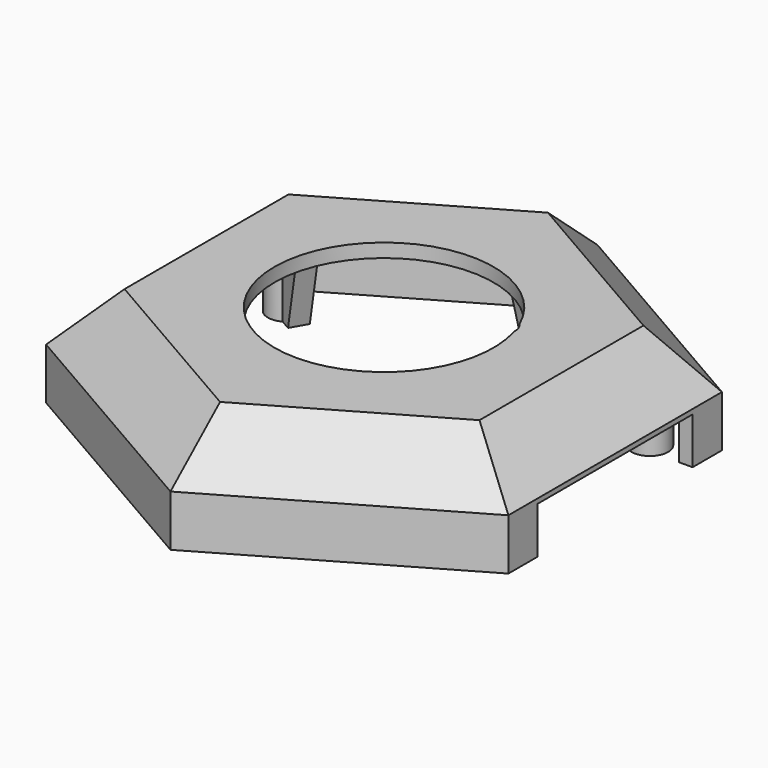
from build123d import *

# Parameters (mm, degrees)
BOX038_W                 = 6
BOX038_H                 = 42.4
BOX038_DEPTH             = 10.2
CYLINDER053_R            = 2
CYLINDER053_DEPTH        = 42
CYLINDER053_ROLL_ANGLE   = 90
PAD007_DEPTH             = 37
BODY008_PITCH_ANGLE      = -45
CYLINDER051_R            = 4
CYLINDER051_DEPTH        = 44
CYLINDER052_R            = 24
CYLINDER052_DEPTH        = 44
PAD006_DEPTH             = 5.62
PRISM012_DEPTH           = 20
PRISM012_PLACEMENT_ANGLE = 30
CHAMFER008_SIZE          = 10
THICKNESS001_T           = 3
CYLINDER055_R            = 1.5
CYLINDER055_DEPTH        = 15
BOX040_W                 = 4
BOX040_H                 = 7
BOX040_DEPTH             = 22
CHAMFER009_SIZE2         = 4
CHAMFER009_SIZE          = 15
BOX039_W                 = 12
BOX039_H                 = 10
BOX039_DEPTH             = 14
BOX039_ROLL_ANGLE        = -45
CYLINDER054_R            = 4
CYLINDER054_DEPTH        = 21
BOX041_W                 = 4
BOX041_H                 = 7
BOX041_DEPTH             = 10
CHAMFER010_SIZE          = 5
ARRAY003_COUNT           = 6


with BuildPart() as esfera:
    # Sphere → Sphere (revolve)
    with BuildSketch(Plane(origin=(-49, 0, 20), x_dir=(1, 0, 0), z_dir=(0, -1, 0))):
        with BuildLine():
            ThreePointArc((0, -7.5), (7.5, 0), (0, 7.5))
            Line((0, 7.5), (0, -7.5))
        make_face()
    revolve(axis=Axis((-49, 0, 20), (0, 0, 1)))


with BuildPart() as cubo034:
    # Box038 → Box038 (new body)
    with BuildSketch(Plane(origin=(44.7, -21.2, 0), x_dir=(1, 0, 0), z_dir=(0, 0, 1))):
        with Locations((3, 21.2)):
            Rectangle(BOX038_W, BOX038_H)
    extrude(amount=BOX038_DEPTH)


with BuildPart() as cylinder053:
    # Cylinder053 → Cylinder053 (new body)
    with BuildSketch(Plane.XY):
        Circle(CYLINDER053_R)
    extrude(amount=CYLINDER053_DEPTH)


with BuildPart() as cylinder053_1:
    # Cylinder053 roll: moved
    add(cylinder053.part.rotate(Axis((0, 0, 0), (1, 0, 0)), CYLINDER053_ROLL_ANGLE))


with BuildPart() as cylinder053_2:
    # Cylinder053 placement: moved
    add(cylinder053_1.part.moved(Location((-39, 21, 33))))


with BuildPart() as body008:
    # Sketch008 → Pad007 (new body)
    with BuildSketch(Plane.XY):
        Polygon((-40.876069, 10), (-49.536323, 5), (-49.536323, -5), (-40.876069, -10), (-32.215815, -5), (-32.215815, 5), align=None)
    extrude(amount=PAD007_DEPTH)


with BuildPart() as body008_1:
    # Body008 pitch: moved
    add(body008.part.rotate(Axis((0, 0, 0), (0, 1, 0)), BODY008_PITCH_ANGLE))


with BuildPart() as body008_2:
    # Body008 placement: moved
    add(body008_1.part.moved(Location((0, 0, 103))))


with BuildPart() as obj1:
    # Cylinder051 → Cylinder051 (new body)
    with BuildSketch(Plane(origin=(19, 7, 0), x_dir=(1, 0, 0), z_dir=(0, 0, 1))):
        Circle(CYLINDER051_R)
    extrude(amount=CYLINDER051_DEPTH)


with BuildPart() as fusion019:
    # Cylinder052 → Cylinder052 (new body)
    with BuildSketch(Plane.XY):
        Circle(CYLINDER052_R)
    extrude(amount=CYLINDER052_DEPTH)

    # Fusion019: union obj1
    add(obj1.part)


with BuildPart() as obj2:
    # Sketch007 → Pad006 (new body)
    with BuildSketch(Plane.YZ):
        Polygon((-3, 0.536587), (3, 0.536587), (4.5, -3.263413), (-4.5, -3.263413), align=None)
    extrude(amount=PAD006_DEPTH)


with BuildPart() as obj2_1:
    # Body007 placement: moved
    add(obj2.part.moved(Location((45.85, 0, 5))))


with BuildPart() as superior001:
    # Prism012 → Prism012 (new body)
    with BuildSketch(Plane.XY):
        Polygon((55, 0), (27.5, 47.631397), (-27.5, 47.631397), (-55, 0), (-27.5, -47.631397), (27.5, -47.631397), align=None)
    extrude(amount=PRISM012_DEPTH)


with BuildPart() as superior001_1:
    # Prism012 placement: moved
    add(superior001.part.rotate(Axis((0, 0, 0), (0, 0, 1)), PRISM012_PLACEMENT_ANGLE))

    # Chamfer008
    chamfer008_edges = [superior001_1.edges().sort_by_distance(p)[0] for p in [
        (23.815699, 41.25, 20),
        (-23.815699, 41.25, 20),
        (-47.631397, 0, 20),
        (-23.815699, -41.25, 20),
        (23.815699, -41.25, 20),
        (47.631397, 0, 20),
    ]]
    chamfer(chamfer008_edges, length=CHAMFER008_SIZE)

    # Thickness001
    thickness001_openings = [superior001_1.faces().sort_by_distance(p)[0] for p in [
        (0, 0, 0),
    ]]
    offset(amount=THICKNESS001_T, openings=thickness001_openings, kind=Kind.INTERSECTION)

    # Cut022: cut obj2
    add(obj2_1.part, mode=Mode.SUBTRACT)

    # Cut023: cut Fusion019
    add(fusion019.part, mode=Mode.SUBTRACT)

    # Cut024: cut Body008
    add(body008_2.part, mode=Mode.SUBTRACT)

    # Cut025: cut Cylinder053
    add(cylinder053_2.part, mode=Mode.SUBTRACT)

    # Cut026: cut Cubo034
    add(cubo034.part, mode=Mode.SUBTRACT)


with BuildPart() as cilindro028:
    # Cylinder055 → Cylinder055 (new body)
    with BuildSketch(Plane(origin=(0, -46, 0), x_dir=(1, 0, 0), z_dir=(0, 0, 1))):
        Circle(CYLINDER055_R)
    extrude(amount=CYLINDER055_DEPTH)


with BuildPart() as chamfer009:
    # Box040 → Box040 (new body)
    with BuildSketch(Plane(origin=(-2, -43, 0), x_dir=(1, 0, 0), z_dir=(0, 0, 1))):
        with Locations((2, 3.5)):
            Rectangle(BOX040_W, BOX040_H)
    extrude(amount=BOX040_DEPTH)

    # Chamfer009
    chamfer009_edges = [chamfer009.edges().sort_by_distance(p)[0] for p in [
        (0, -36, 0),
    ]]
    chamfer009_side = chamfer009.faces().sort_by_distance((0, -36, 11))[0]
    chamfer(chamfer009_edges, length=CHAMFER009_SIZE, length2=CHAMFER009_SIZE2, reference=chamfer009_side)


with BuildPart() as cubo035:
    # Box039 → Box039 (new body)
    with BuildSketch(Plane.XY):
        with Locations((6, 5)):
            Rectangle(BOX039_W, BOX039_H)
    extrude(amount=BOX039_DEPTH)


with BuildPart() as cubo035_1:
    # Box039 roll: moved
    add(cubo035.part.rotate(Axis((0, 0, 0), (1, 0, 0)), BOX039_ROLL_ANGLE))


with BuildPart() as cubo035_2:
    # Box039 placement: moved
    add(cubo035_1.part.moved(Location((-7, -59, 20))))


with BuildPart() as cut027:
    # Cylinder054 → Cylinder054 (new body)
    with BuildSketch(Plane(origin=(0, -46, 0), x_dir=(1, 0, 0), z_dir=(0, 0, 1))):
        Circle(CYLINDER054_R)
    extrude(amount=CYLINDER054_DEPTH)

    # Cut027: cut Cubo035
    add(cubo035_2.part, mode=Mode.SUBTRACT)


with BuildPart() as superior_final:
    # Box041 → Box041 (new body)
    with BuildSketch(Plane(origin=(-2, -56, 6), x_dir=(1, 0, 0), z_dir=(0, 0, 1))):
        with Locations((2, 3.5)):
            Rectangle(BOX041_W, BOX041_H)
    extrude(amount=BOX041_DEPTH)

    # Chamfer010
    chamfer010_edges = [superior_final.edges().sort_by_distance(p)[0] for p in [
        (0, -56, 16),
    ]]
    chamfer(chamfer010_edges, length=CHAMFER010_SIZE)

    # Fusion020: union Chamfer009, Cut027
    add(chamfer009.part)
    add(cut027.part)

    # Cut028: cut Cilindro028
    add(cilindro028.part, mode=Mode.SUBTRACT)

    # Array003: superior final ×6 about axis
    array003_axis = Axis((0, 0, 0), (0, 0, 1))


with BuildPart() as superior_final_1:
    add(superior_final.part)
    for i in range(1, ARRAY003_COUNT):
        add(superior_final.part.rotate(array003_axis, i * 360 / ARRAY003_COUNT))

    # Fusion021: union superior001
    add(superior001_1.part)

    # Cut029: cut Esfera
    add(esfera.part, mode=Mode.SUBTRACT)


solid = superior_final_1.part
